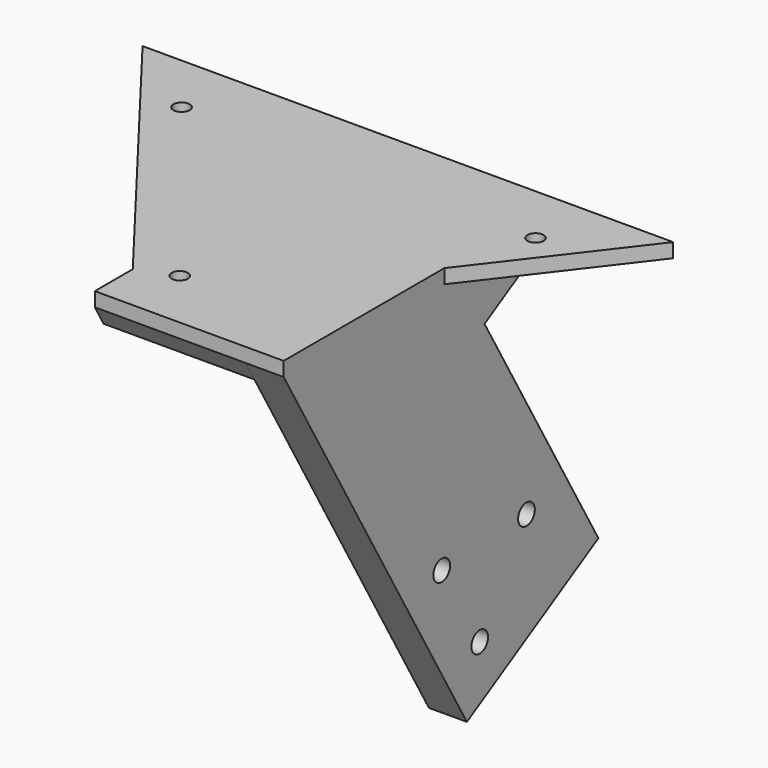
from build123d import *

# Parameters (mm, degrees)
SKETCH040_R     = 1.7
PAD021_DEPTH    = 3
PAD022_DEPTH    = 3
SKETCH041_R     = 2.2
POCKET013_DEPTH = 26.619333
PAD020_DEPTH    = 5
PAD023_DEPTH    = 4
POCKET015_DEPTH = 31.8
POCKET014_DEPTH = 80.219333


with BuildPart() as part:
    # Sketch040 (on Face4 of Binder004) → Pad021 (new body)
    with BuildSketch(Plane(origin=(0, 0, -8.7), x_dir=(1, 0, 0), z_dir=(0, 0, -1))):
        Polygon((63, -0.2), (63, -10.2), (14.581667, -73.3), (126.418333, -73.3), (102.8, -42.519989), (102.8, -0.2), align=None)
        with Locations((70.5, -13.2)):
            Circle(SKETCH040_R, mode=Mode.SUBTRACT)
        with Locations((107.8, -60.3)):
            Circle(SKETCH040_R, mode=Mode.SUBTRACT)
        with Locations((33.2, -60.3)):
            Circle(SKETCH040_R, mode=Mode.SUBTRACT)
    extrude(amount=PAD021_DEPTH)

    # Sketch042 (on Face6 of Pad021) → Pad022 (join)
    with BuildSketch(Plane.YZ.offset(102.8)):
        Polygon((0.2, -11.7), (48.475, -95.314753), (83.116016, -75.314753), (53.116016, -23.353229), (73.3, -11.7), align=None)
    extrude(amount=-PAD022_DEPTH)

    # Sketch041 (on Face14 of Pad022) → Pocket013 (cut, through all)
    with BuildSketch(Plane(origin=(99.8, 0, 0), x_dir=(0, -1, 0), z_dir=(-1, 0, 0))):
        with Locations((-51.846002, -81.821499)):
            Circle(SKETCH041_R)
        with Locations((-41.846002, -64.500991)):
            Circle(SKETCH041_R)
        with Locations((-64.16651, -63.161245)):
            Circle(SKETCH041_R)
    extrude(amount=-POCKET013_DEPTH, mode=Mode.SUBTRACT)

    # Sketch043 (on Face14 of Pocket013) → Pad020 (join)
    with BuildSketch(Plane(origin=(99.8, 0, 0), x_dir=(0, -1, 0), z_dir=(-1, 0, 0))):
        Polygon((-0.2, -11.7), (-48.475, -95.314753), (-51.073076, -93.814753), (-3.664102, -11.7), align=None)
        Polygon((-42.92392, -11.7), (-80.51794, -76.814753), (-83.116016, -75.314753), (-53.116016, -23.353229), (-73.3, -11.7), align=None)
        Polygon((-21.56196, -11.7), (-64.49647, -86.064753), (-67.094546, -84.564753), (-25.026062, -11.7), align=None)
    extrude(amount=PAD020_DEPTH)

    # Sketch038 (on Face5 of Pad020) → Pad023 (join)
    with BuildSketch(Plane(origin=(0, 0, -11.7), x_dir=(1, 0, 0), z_dir=(0, 0, -1))):
        Polygon((94.8, -3.664102), (66, -3.664102), (66, -11.218363), (20.665065, -70.3), (57.401987, -70.3), (94.8, -21.56196), (94.8, -25.026062), (60.060085, -70.3), (94.8, -70.3), (94.8, -73.3), (14.581667, -73.3), (63, -10.2), (63, -0.2), (94.8, -0.2), align=None)
    extrude(amount=PAD023_DEPTH)

    # Sketch044 (on Face16 of Pad023) → Pocket015 (cut)
    with BuildSketch(Plane.YZ.offset(94.8)):
        Polygon((2.509401, -15.7), (0.2, -15.7), (0.2, -11.7), align=None)
        Polygon((23.871361, -15.7), (21.56196, -11.7), (21.56196, -15.7), align=None)
    extrude(amount=-POCKET015_DEPTH, mode=Mode.SUBTRACT)

    # Sketch039 (on Face30 of Pocket015) → Pocket014 (cut, through all)
    with BuildSketch(Plane.YZ.offset(94.8)):
        Polygon((73.3, -11.7), (73.3, -15.7), (66.371797, -15.7), align=None)
    extrude(amount=-POCKET014_DEPTH, mode=Mode.SUBTRACT)


solid = part.part
